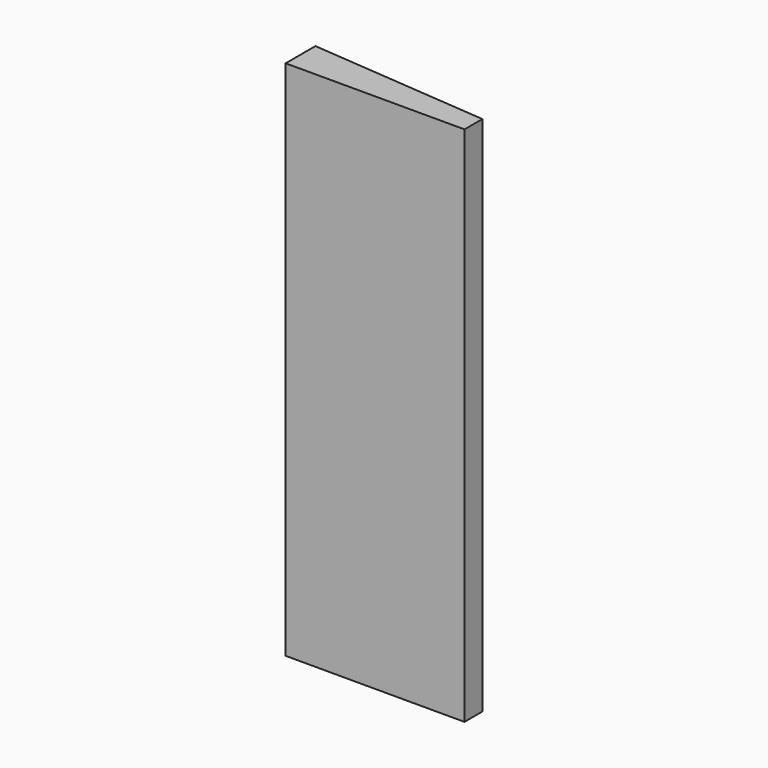
from build123d import *

# Parameters (mm, degrees)
F1_DEPTH = 444.5
F2_W     = 95.25
F2_H     = 279.4
F2_W_2   = 19.05
F2_H_2   = 355.6
F2_H_3   = 76.2
F3_DEPTH = 6.35


with BuildPart() as f1:
    # F0 (on Top) → F1 (new body)
    with BuildSketch(Plane.XY):
        Polygon((0, 31.75), (0, 0), (152.4, 0), (152.4, 19.05), align=None)
    extrude(amount=F1_DEPTH)

    # F2 (on face) → F3 (join)
    with BuildSketch(Plane(origin=(2.6275862069, 31.5310344828, 0), x_dir=(-0.9965457582, 0.0830454799, 0), z_dir=(0.0830454799, 0.9965457582, 0))):
        with Locations((-96.3165571653, 298.45)):
            Rectangle(F2_W, F2_H)
        with Locations((-13.2383060146, 260.35)):
            Rectangle(F2_W_2, F2_H_2)
        with Locations((-96.3165571653, 44.45)):
            Rectangle(F2_W, F2_H_3)
    extrude(amount=F3_DEPTH)


solid = f1.part
